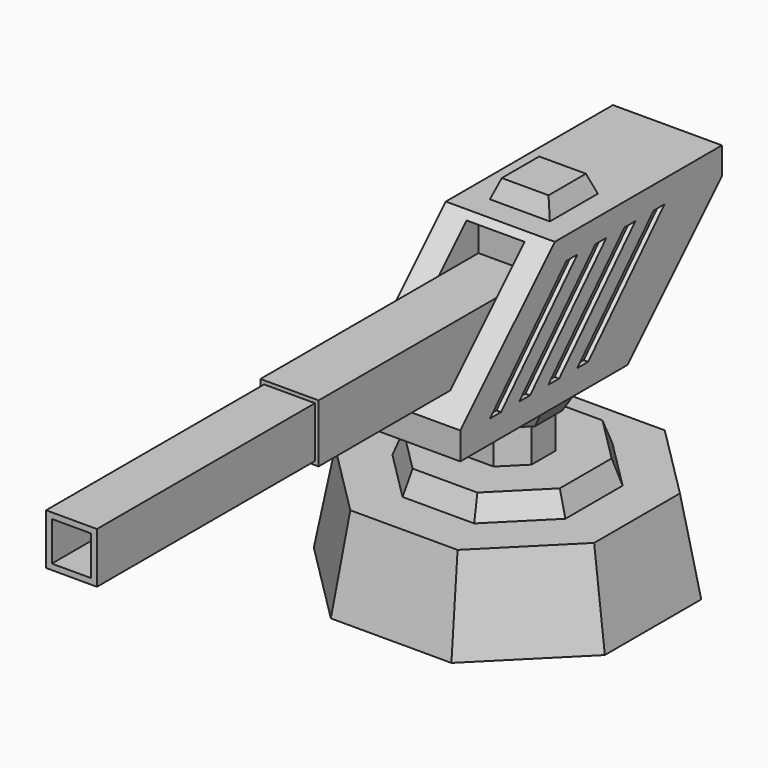
from build123d import *

# Parameters (mm, degrees)
F1_DEPTH  = 25.4
F1_TAPER  = 10
F3_DEPTH  = 6.35
F3_TAPER  = 20
F5_DEPTH  = 10.16
F7_DEPTH  = 5.08
F7_TAPER  = -30
F9_DEPTH  = 15.24
F10_W     = 16.256
F10_H     = 26.0146409273
F11_DEPTH = 35.56
F12_W     = 16.256
F12_H     = 16.256
F13_DEPTH = 76.2
F14_W     = 14.224
F14_H     = 14.224
F15_DEPTH = 76.2
F16_W     = 10.9911077964
F16_H     = 10.9911077964
F17_DEPTH = 149.86
F18_W     = 16.764
F18_H     = 16.764
F19_DEPTH = 5.08
F19_TAPER = 20
F21_DEPTH = 5.08
F23_DEPTH = 5.08
F25_DEPTH = 3.81
F27_DEPTH = 3.81


with BuildPart() as f1:
    # F0 (on Top) → F1 (new body)
    with BuildSketch(Plane.XY):
        Polygon((0, 37.1335148811), (0, 0), (40.6867459597, 16.8530019854), (16.8530019854, 40.6867459597), (0, 40.6867459597), align=None)
        Polygon((40.6867459597, 16.8530019854), (0, 0), (0, 37.1335148811), (0, 40.6867459597), (-16.8530019854, 40.6867459597), (-40.6867459597, 16.8530019854), (-40.6867459597, -16.8530019854), (-16.8530019854, -40.6867459597), (16.8530019854, -40.6867459597), (40.6867459597, -16.8530019854), align=None)
    extrude(amount=F1_DEPTH, taper=F1_TAPER)


with BuildPart() as f3:
    # F2 (on face) → F3 (new body)
    with BuildSketch(Plane.XY.offset(25.4)):
        Polygon((10.0126762949, 24.1727389067), (-10.0126762949, 24.1727389067), (-24.1727389067, 10.0126762949), (-24.1727389067, -10.0126762949), (-10.0126762949, -24.1727389067), (10.0126762949, -24.1727389067), (24.1727389067, -10.0126762949), (24.1727389067, 10.0126762949), align=None)
    extrude(amount=F3_DEPTH, taper=F3_TAPER)


with BuildPart() as f5:
    # F4 (on face) → F5 (new body)
    with BuildSketch(Plane.XY.offset(31.75)):
        Polygon((4.1605260419, 10.0443983969), (-4.1605260419, 10.0443983969), (-10.0443983969, 4.1605260419), (-10.0443983969, -4.1605260419), (-4.1605260419, -10.0443983969), (4.1605260419, -10.0443983969), (10.0443983969, -4.1605260419), (10.0443983969, 4.1605260419), align=None)
    extrude(amount=F5_DEPTH)


with BuildPart() as f7:
    # F6 (on face) → F7 (new body)
    with BuildSketch(Plane.XY.offset(41.91)):
        Polygon((4.7593670983, 11.490128597), (-4.7593670983, 11.490128597), (-11.490128597, 4.7593670983), (-11.490128597, -4.7593670983), (-4.7593670983, -11.490128597), (4.7593670983, -11.490128597), (11.490128597, -4.7593670983), (11.490128597, 4.7593670983), align=None)
    extrude(amount=F7_DEPTH, taper=F7_TAPER)


with BuildPart() as f9:
    # F8 (on Right) → F9 (new body, symmetric)
    with BuildSketch(Plane.YZ):
        Polygon((-5.9742303619, 46.99), (5.9742303619, 46.99), (22.86, 46.99), (55.88, 80.01), (55.88, 87.63), (-2.54, 87.63), (-35.56, 54.61), (-35.56, 46.99), align=None)
    extrude(amount=F9_DEPTH, both=True)

    # F10 (on face) → F11 (cut)
    with BuildSketch(Plane.XZ.offset(35.56)):
        with Locations((0, 72.9723498225)):
            Rectangle(F10_W, F10_H)
    extrude(amount=-F11_DEPTH, mode=Mode.SUBTRACT)

    # F20 (on face) → F21 (cut)
    with BuildSketch(Plane.YZ.offset(15.24)):
        Polygon((5.334, 81.28), (1.524, 81.28), (-25.146, 53.34), (-21.336, 53.34), align=None)
        Polygon((15.494, 81.28), (11.684, 81.28), (-14.986, 53.34), (-11.176, 53.34), align=None)
        Polygon((25.654, 81.28), (21.844, 81.28), (-4.826, 53.34), (-1.016, 53.34), align=None)
        Polygon((32.004, 81.28), (5.334, 53.34), (9.144, 53.34), (35.814, 81.28), align=None)
    extrude(amount=-F21_DEPTH, mode=Mode.SUBTRACT)

    # F22 (on face) → F23 (cut)
    with BuildSketch(Plane(origin=(-15.24, 0, 0), x_dir=(0, -1, 0), z_dir=(-1, 0, 0))):
        Polygon((-1.524, 81.28), (-5.334, 81.28), (21.336, 53.34), (25.146, 53.34), align=None)
        Polygon((-11.684, 81.28), (-15.494, 81.28), (11.176, 53.34), (14.986, 53.34), align=None)
        Polygon((-21.844, 81.28), (-25.654, 81.28), (1.016, 53.34), (4.826, 53.34), align=None)
        Polygon((-5.334, 53.34), (-32.004, 81.28), (-35.814, 81.28), (-9.144, 53.34), align=None)
    extrude(amount=-F23_DEPTH, mode=Mode.SUBTRACT)


with BuildPart() as f13:
    # F12 (on face) → F13 (new body)
    with BuildSketch(Plane.XZ):
        with Locations((0, 68.0930293589)):
            Rectangle(F12_W, F12_H)
    extrude(amount=F13_DEPTH)

    # F14 (on face) → F15 (join)
    with BuildSketch(Plane.XZ.offset(76.2)):
        with Locations((0, 68.0930293589)):
            Rectangle(F14_W, F14_H)
    extrude(amount=F15_DEPTH)

    # F16 (on face) → F17 (cut)
    with BuildSketch(Plane.XZ.offset(152.4)):
        with Locations((0, 68.0930293589)):
            Rectangle(F16_W, F16_H)
    extrude(amount=-F17_DEPTH, mode=Mode.SUBTRACT)


with BuildPart() as f19:
    # F18 (on face) → F19 (new body)
    with BuildSketch(Plane.XY.offset(87.63)):
        with Locations((0, 12.7)):
            Rectangle(F18_W, F18_H)
    extrude(amount=F19_DEPTH, taper=F19_TAPER)


with BuildPart() as f25:
    # F24 (on face) → F25 (new body)
    with BuildSketch(Plane(origin=(-10.16, 0, 0), x_dir=(0, -1, 0), z_dir=(-1, 0, 0))):
        Polygon((14.986, 53.34), (-11.684, 81.28), (-15.494, 81.28), (11.176, 53.34), align=None)
    extrude(amount=F25_DEPTH)


with BuildPart() as f25b:
    # F24 (on face) → F25, piece 2 (new body)
    with BuildSketch(Plane(origin=(-10.16, 0, 0), x_dir=(0, -1, 0), z_dir=(-1, 0, 0))):
        Polygon((25.146, 53.34), (-1.524, 81.28), (-5.334, 81.28), (21.336, 53.34), align=None)
    extrude(amount=F25_DEPTH)


with BuildPart() as f25c:
    # F24 (on face) → F25, piece 3 (new body)
    with BuildSketch(Plane(origin=(-10.16, 0, 0), x_dir=(0, -1, 0), z_dir=(-1, 0, 0))):
        Polygon((4.826, 53.34), (-21.844, 81.28), (-25.654, 81.28), (1.016, 53.34), align=None)
    extrude(amount=F25_DEPTH)


with BuildPart() as f25d:
    # F24 (on face) → F25, piece 4 (new body)
    with BuildSketch(Plane(origin=(-10.16, 0, 0), x_dir=(0, -1, 0), z_dir=(-1, 0, 0))):
        Polygon((-9.144, 53.34), (-5.334, 53.34), (-32.004, 81.28), (-35.814, 81.28), align=None)
    extrude(amount=F25_DEPTH)


with BuildPart() as f27:
    # F26 (on face) → F27 (new body)
    with BuildSketch(Plane.YZ.offset(10.16)):
        Polygon((-21.336, 53.34), (5.334, 81.28), (1.524, 81.28), (-25.146, 53.34), align=None)
    extrude(amount=F27_DEPTH)


with BuildPart() as f27b:
    # F26 (on face) → F27, piece 2 (new body)
    with BuildSketch(Plane.YZ.offset(10.16)):
        Polygon((-11.176, 53.34), (15.494, 81.28), (11.684, 81.28), (-14.986, 53.34), align=None)
    extrude(amount=F27_DEPTH)


with BuildPart() as f27c:
    # F26 (on face) → F27, piece 3 (new body)
    with BuildSketch(Plane.YZ.offset(10.16)):
        Polygon((-1.016, 53.34), (25.654, 81.28), (21.844, 81.28), (-4.826, 53.34), align=None)
    extrude(amount=F27_DEPTH)


with BuildPart() as f27d:
    # F26 (on face) → F27, piece 4 (new body)
    with BuildSketch(Plane.YZ.offset(10.16)):
        Polygon((35.814, 81.28), (32.004, 81.28), (5.334, 53.34), (9.144, 53.34), align=None)
    extrude(amount=F27_DEPTH)


solid = Compound([f1.part, f3.part, f5.part, f7.part, f9.part, f13.part, f19.part, f25.part, f25b.part, f25c.part, f25d.part, f27.part, f27b.part, f27c.part, f27d.part])
